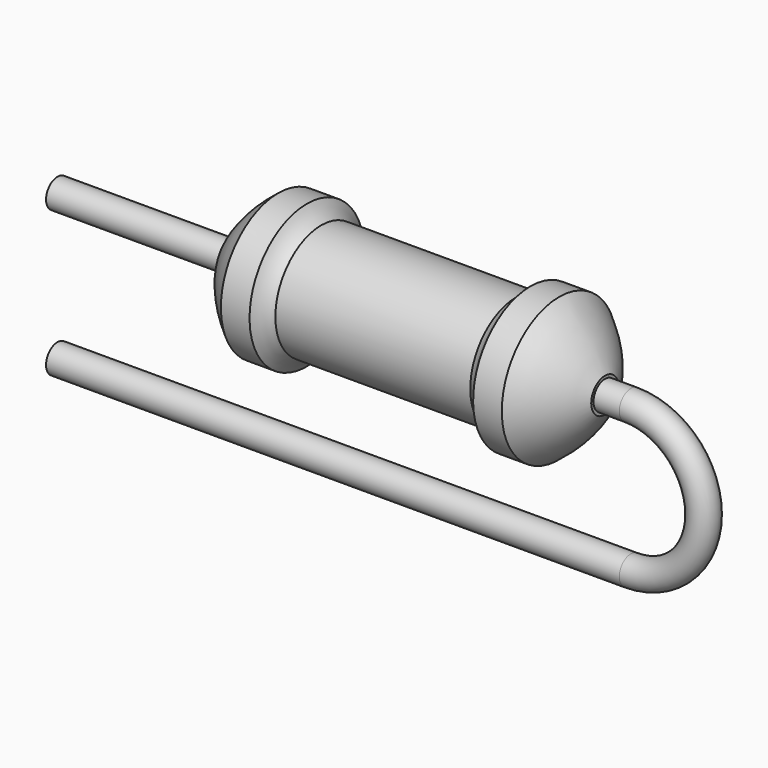
from build123d import *

# Parameters (mm, degrees)
SKETCH_R = 0.25


with BuildPart() as revolution:
    # Sketch002 → Revolution (revolve)
    with BuildSketch(Plane.XZ):
        with BuildLine():
            Line((1.35, 3.79), (1.85, 3.79))
            ThreePointArc((1.85, 3.79), (1.956999, 3.646999), (2.1, 3.54))
            Line((2.1, 3.54), (5.5, 3.54))
            ThreePointArc((5.5, 3.54), (5.643001, 3.646999), (5.75, 3.79))
            Line((5.75, 3.79), (6.25, 3.79))
            ThreePointArc((7.05, 2.84), (6.703597, 3.360134), (6.25, 3.79))
            Line((7.05, 2.54), (7.05, 2.84))
            Line((0.55, 2.54), (7.05, 2.54))
            Line((0.55, 2.54), (0.55, 2.84))
            ThreePointArc((1.35, 3.79), (0.896403, 3.360134), (0.55, 2.84))
        make_face()
    revolve(axis=Axis((0.55, 0, 2.54), (1, 0, 0)))


with BuildPart() as sweep_body:
    # Sweep: sweep along a path in Sketch001
    with BuildLine(Plane.XZ) as sweep_path:
        Line((-2.5, 0), (7.5, 0))
        ThreePointArc((7.5, 0), (8.77, 1.27), (7.5, 2.54))
        Line((7.5, 2.54), (-2.5, 2.54))
    # Sketch → Sweep (sweep)
    with BuildSketch(Plane.YZ.offset(-2.5)):
        Circle(SKETCH_R)
    sweep(path=sweep_path.line, is_frenet=True)


solid = Compound([revolution.part, sweep_body.part])
